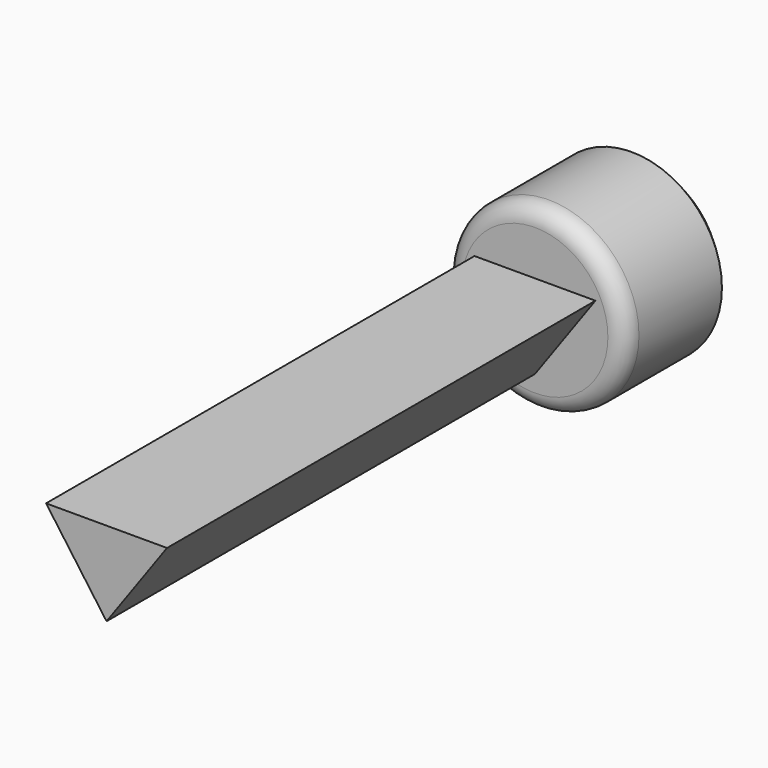
from build123d import *

# Parameters (mm, degrees)
F1_DEPTH = 155
F2_R     = 26.10915
F3_DEPTH = 40
F4_SIZE  = 5
F5_R     = 5


with BuildPart() as f1:
    # F0 (on Front) → F1 (new body)
    with BuildSketch(Plane.XZ):
        Polygon((17.5, 8.122329), (-17.5, 8.122329), (0, -16.244657), align=None)
    extrude(amount=F1_DEPTH)

    # F2 (on Front) → F3 (join)
    with BuildSketch(Plane.XZ):
        Circle(F2_R)
    extrude(amount=-F3_DEPTH)

    # F4
    f4_edges = [f1.edges().sort_by_distance(p)[0] for p in [
        (-26.10915, 40, 0),
    ]]
    chamfer(f4_edges, length=F4_SIZE)

    # F5
    f5_edges = [f1.edges().sort_by_distance(p)[0] for p in [
        (-26.10915, 0, 0),
    ]]
    fillet(f5_edges, radius=F5_R)


solid = f1.part
